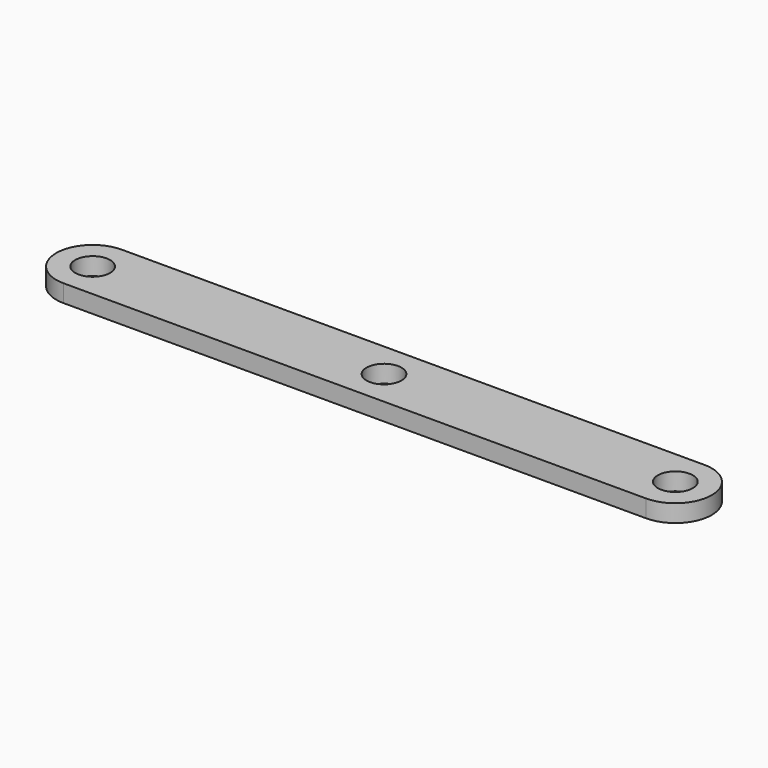
from build123d import *

# Parameters (mm, degrees)
F0_R     = 6
F1_DEPTH = 6


with BuildPart() as f1:
    # F0 (on Top) → F1 (new body)
    with BuildSketch(Plane.XY):
        with BuildLine():
            Line((100, 12.5), (-100, 12.5))
            ThreePointArc((-100, 12.5), (-112.5, 0), (-100, -12.5))
            Line((-100, -12.5), (100, -12.5))
            ThreePointArc((100, -12.5), (112.5, 0), (100, 12.5))
        make_face()
        with Locations((-100, 0)):
            Circle(F0_R, mode=Mode.SUBTRACT)
        Circle(F0_R, mode=Mode.SUBTRACT)
        with Locations((100, 0)):
            Circle(F0_R, mode=Mode.SUBTRACT)
    extrude(amount=F1_DEPTH)


solid = f1.part
